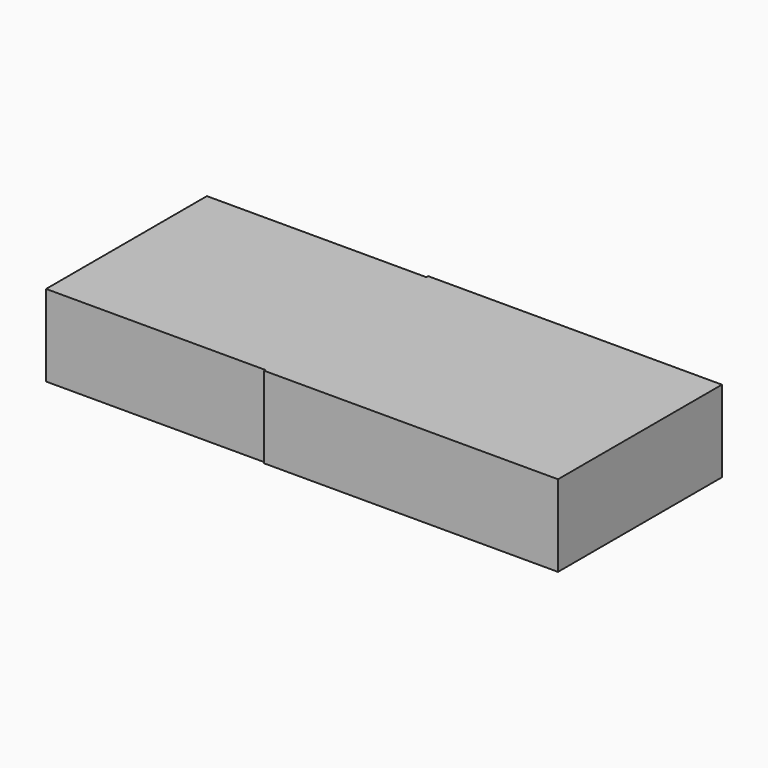
from build123d import *

# Parameters (mm, degrees)
F0_W     = 34.373998
F0_H     = 31.302624
F1_DEPTH = 12.7
F2_W     = 45.763079
F2_H     = 31.908203
F3_DEPTH = 12.7


with BuildPart() as f1:
    # F0 (on Top) → F1 (new body)
    with BuildSketch(Plane.XY):
        with Locations((-52.335456, 8.656729)):
            Rectangle(F0_W, F0_H)
    extrude(amount=F1_DEPTH)

    # F2 (on Top) → F3 (join)
    with BuildSketch(Plane.XY):
        with Locations((-12.480459, 8.703596)):
            Rectangle(F2_W, F2_H)
    extrude(amount=F3_DEPTH)


solid = f1.part
